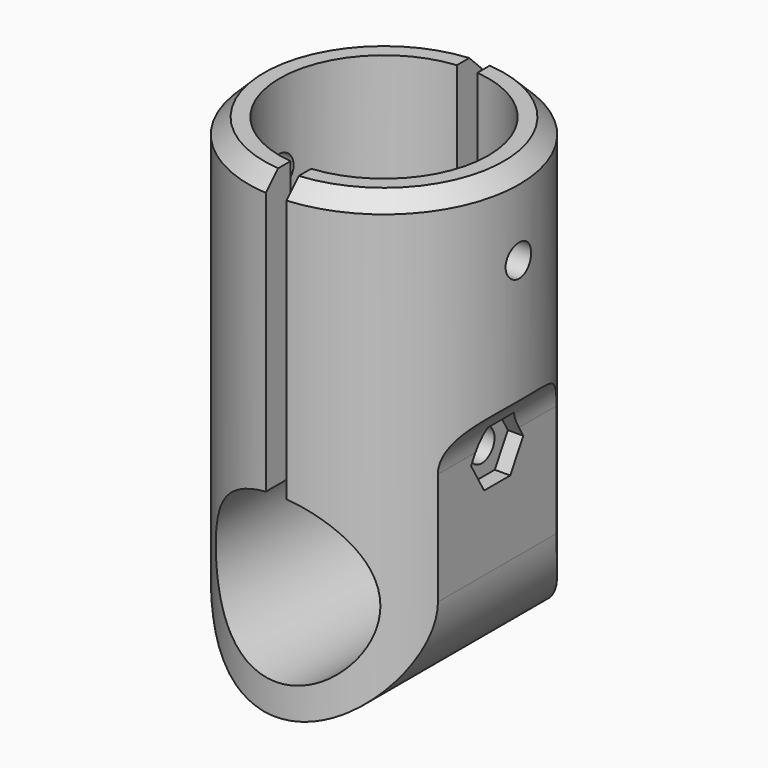
from build123d import *

# Parameters (mm, degrees)
F0_R      = 13.15
F0_R_2    = 10.15
F1_DEPTH  = 20
F2_R      = 8
F3_DEPTH  = 22.5
F4_R      = 40.4098259217
F4_R_2    = 13.15
F5_DEPTH  = 50
F6_W      = 2
F6_H      = 35
F7_DEPTH  = 31.2572
F8_SIZE   = 1.5
F9_R      = 1.55
F10_DEPTH = 30.51178
F12_DEPTH = 1.5


with BuildPart() as f1:
    # F0 (on Top) → F1 (new body)
    with BuildSketch(Plane.XY):
        Circle(F0_R)
        Circle(F0_R_2, mode=Mode.SUBTRACT)
    extrude(amount=-F1_DEPTH)

    # F2 (on Front) → F3 (join, symmetric)
    with BuildSketch(Plane.XZ):
        with BuildLine():
            ThreePointArc((-11, -35), (0, -46), (11, -35))
            ThreePointArc((11, -35), (0, -24), (-11, -35))
        make_face()
        with Locations((0, -35)):
            Circle(F2_R, mode=Mode.SUBTRACT)
        with BuildLine():
            ThreePointArc((-11, -35), (0, -24), (11, -35))
            Line((11, -35), (11, -24.0798275918))
            ThreePointArc((11, -24.0798275918), (11.5703901789, -21.7739929718), (13.15, -20))
            Line((13.15, -20), (-13.15, -20))
            ThreePointArc((-13.15, -20), (-11.5703901789, -21.7739929718), (-11, -24.0798275918))
            Line((-11, -24.0798275918), (-11, -35))
        make_face()
    extrude(amount=F3_DEPTH, both=True)

    # F4 (on face) → F5 (cut)
    with BuildSketch(Plane.XY):
        Circle(F4_R)
        Circle(F4_R_2, mode=Mode.SUBTRACT)
    extrude(amount=-F5_DEPTH, mode=Mode.SUBTRACT)

    # F6 (on face) → F7 (cut)
    with BuildSketch(Plane.XY):
        Rectangle(F6_W, F6_H)
    extrude(amount=-F7_DEPTH, mode=Mode.SUBTRACT)

    # F8
    f8_edges = [f1.edges().sort_by_distance(p)[0] for p in [
        (-13.15, 0, 0),
        (9.64553, 8.937911, 0),
        (9.64553, -8.937911, 0),
    ]]
    chamfer(f8_edges, length=F8_SIZE)

    # F9 (on face) → F10 (cut, symmetric)
    with BuildSketch(Plane(origin=(-11, 0, 0), x_dir=(0, -1, 0), z_dir=(-1, 0, 0))):
        with Locations((0, -25)):
            Circle(F9_R)
        with Locations((0, -8)):
            Circle(F9_R)
    extrude(amount=F10_DEPTH, both=True, mode=Mode.SUBTRACT)

    # F11 (on face) → F12 (cut, symmetric)
    with BuildSketch(Plane.YZ.offset(11)):
        Polygon((1.5877132403, -22.25), (-1.5877132403, -22.25), (-3.1754264805, -25), (-1.5877132403, -27.75), (1.5877132403, -27.75), (3.1754264805, -25), align=None)
    extrude(amount=F12_DEPTH, both=True, mode=Mode.SUBTRACT)


solid = f1.part
